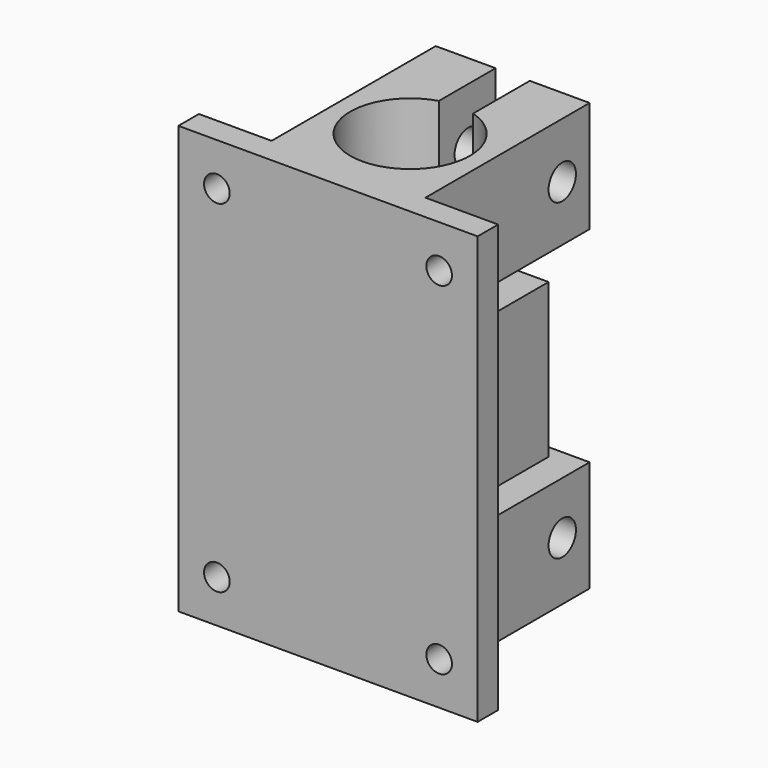
from build123d import *

# Parameters (mm, degrees)
F0_W      = 35
F0_H      = 50
F1_DEPTH  = 3
F2_W      = 18
F2_H      = 13
F2_H_2    = 18
F3_DEPTH  = 24
F4_R      = 7
F5_DEPTH  = 50
F6_R      = 2
F7_DEPTH  = 25
F8_W      = 4
F8_H      = 13
F9_DEPTH  = 10
F10_W     = 4
F10_H     = 13
F11_DEPTH = 10
F12_R     = 1.5
F13_DEPTH = 5
F14_W     = 6
F14_H     = 18
F15_DEPTH = 18


with BuildPart() as f1:
    # F0 (on Front) → F1 (new body)
    with BuildSketch(Plane.XZ):
        with Locations((2.50131, -0.066432)):
            Rectangle(F0_W, F0_H)
    extrude(amount=-F1_DEPTH)

    # F2 (on face) → F3 (join)
    with BuildSketch(Plane(origin=(0, 3, 0), x_dir=(-1, 0, 0), z_dir=(0, 1, 0))):
        with Locations((-2.50131, 18.433568)):
            Rectangle(F2_W, F2_H)
        with Locations((-2.50131, -0.066432)):
            Rectangle(F2_W, F2_H_2)
        with Locations((-2.50131, -18.566432)):
            Rectangle(F2_W, F2_H)
    extrude(amount=F3_DEPTH)

    # F4 (on face) → F5 (cut)
    with BuildSketch(Plane(origin=(0, 0, -25.066432), x_dir=(1, 0, 0), z_dir=(0, 0, -1))):
        with Locations((2.50131, -12)):
            Circle(F4_R)
    extrude(amount=-F5_DEPTH, mode=Mode.SUBTRACT)

    # F6 (on face) → F7 (cut)
    with BuildSketch(Plane(origin=(-6.49869, 0, 0), x_dir=(0, -1, 0), z_dir=(-1, 0, 0))):
        with Locations((-23, 18.433568)):
            Circle(F6_R)
        with Locations((-23, -18.217815)):
            Circle(F6_R)
    extrude(amount=-F7_DEPTH, mode=Mode.SUBTRACT)

    # F8 (on face) → F9 (cut)
    with BuildSketch(Plane(origin=(0, 27, 0), x_dir=(-1, 0, 0), z_dir=(0, 1, 0))):
        with Locations((-2.50131, 18.433568)):
            Rectangle(F8_W, F8_H)
    extrude(amount=-F9_DEPTH, mode=Mode.SUBTRACT)

    # F10 (on face) → F11 (cut)
    with BuildSketch(Plane(origin=(0, 27, 0), x_dir=(-1, 0, 0), z_dir=(0, 1, 0))):
        with Locations((-2.50131, -18.566432)):
            Rectangle(F10_W, F10_H)
    extrude(amount=-F11_DEPTH, mode=Mode.SUBTRACT)

    # F12 (on face) → F13 (cut)
    with BuildSketch(Plane.XZ):
        with Locations((15.50131, 19.933568)):
            Circle(F12_R)
        with Locations((-10.49869, -20.066432)):
            Circle(F12_R)
        with Locations((15.50131, -20.066432)):
            Circle(F12_R)
        with Locations((-10.49869, 19.933568)):
            Circle(F12_R)
    extrude(amount=-F13_DEPTH, mode=Mode.SUBTRACT)

    # F14 (on face) → F15 (cut)
    with BuildSketch(Plane(origin=(-6.49869, 0, 0), x_dir=(0, -1, 0), z_dir=(-1, 0, 0))):
        with Locations((-24, -0.066432)):
            Rectangle(F14_W, F14_H)
    extrude(amount=-F15_DEPTH, mode=Mode.SUBTRACT)


solid = f1.part
